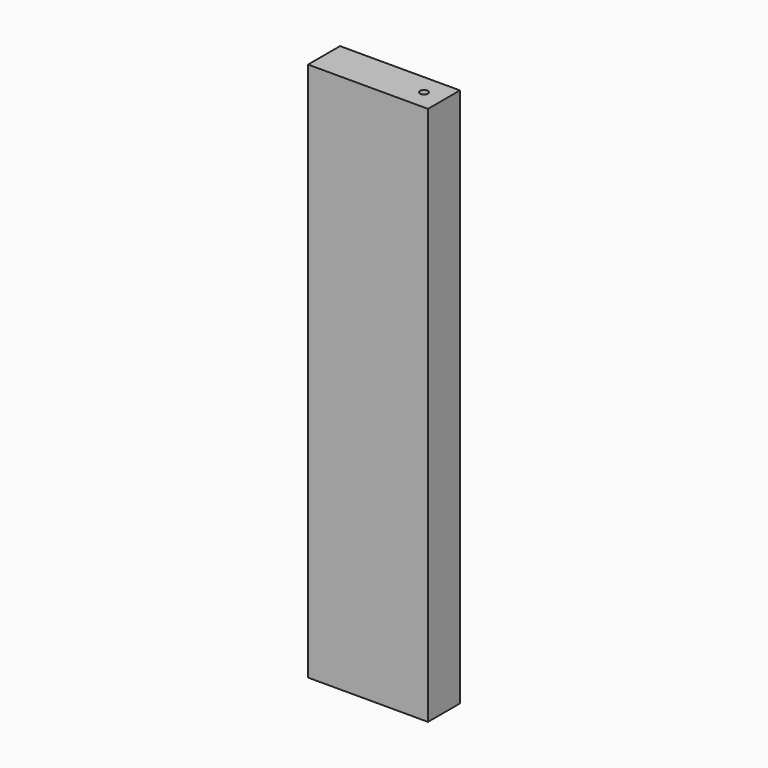
from build123d import *

# Parameters (mm, degrees)
F0_W     = 76.2
F0_H     = 342.9
F1_DEPTH = 25.4
F3_D     = 5
F3_DEPTH = 79.1972
F3_TIP   = 1.5021515476
F5_D     = 5
F5_DEPTH = 79.1972
F5_TIP   = 1.5021515476


with BuildPart() as f1:
    # F0 (on Front) → F1 (new body)
    with BuildSketch(Plane.XZ):
        with Locations((38.1, 171.45)):
            Rectangle(F0_W, F0_H)
    extrude(amount=F1_DEPTH)

    # F3
    with Locations(Plane.XY.offset(342.9)):
        with Locations((63.5, -12.7)):
            Hole(F3_D / 2, depth=F3_DEPTH)
            with Locations((0, 0, -(F3_DEPTH + F3_TIP / 2))):  # 118° drill point
                Cone(0, F3_D / 2, F3_TIP, mode=Mode.SUBTRACT)

    # F5
    with Locations(Plane(origin=(0, 0, 0), x_dir=(1, 0, 0), z_dir=(0, 0, -1))):
        with Locations((57.15, 12.7), (19.05, 12.7)):
            Hole(F5_D / 2, depth=F5_DEPTH)
            with Locations((0, 0, -(F5_DEPTH + F5_TIP / 2))):  # 118° drill point
                Cone(0, F5_D / 2, F5_TIP, mode=Mode.SUBTRACT)


solid = f1.part
